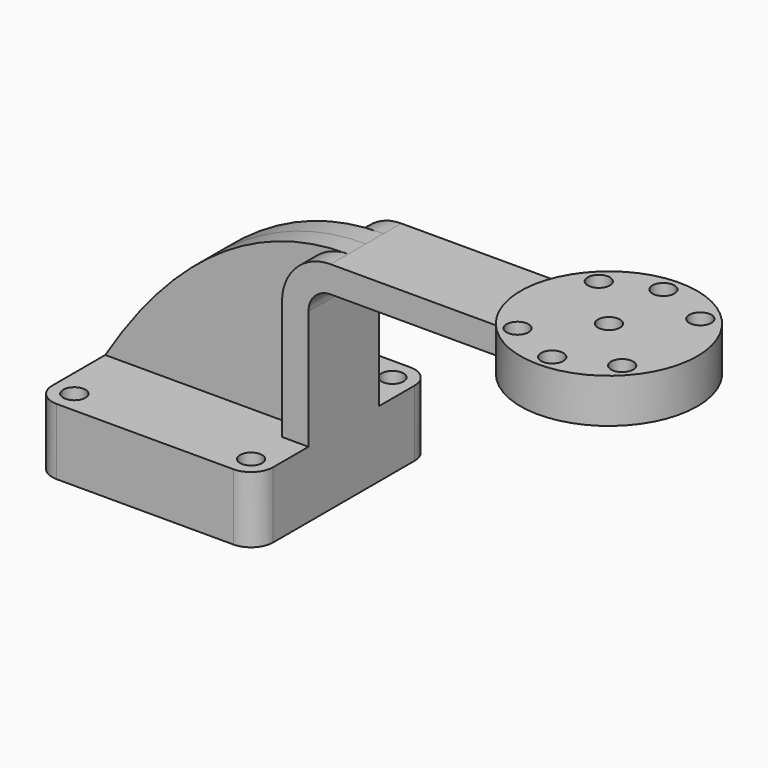
from build123d import *

# Parameters (mm, degrees)
F1_DEPTH = 25
F2_DEPTH = 5
F0_W     = 20
F0_H     = 6
F3_DEPTH = 10
F5_R     = 5
F7_D     = 5
F9_D     = 5


with BuildPart() as f1:
    # F0 (on Front) → F1 (new body, symmetric)
    with BuildSketch(Plane.XZ):
        Polygon((25, -7.5), (25, 7.5), (19, 7.5), (-25, 7.5), (-25, -7.5), align=None)
    extrude(amount=F1_DEPTH, both=True)

    # F0 (on Front) → F2 (join, symmetric)
    with BuildSketch(Plane.XZ):
        with BuildLine():
            Line((-25, 7.5), (19, 7.5))
            Line((19, 7.5), (19, 34.5))
            ThreePointArc((19, 34.5), (22.2218254069, 42.2781745931), (30, 45.5))
            add(Edge.make_bspline(
                [(-25, 7.5), (-11.6937831044, 29.0705016255), (6.4437664114, 45.5402298272), (30, 45.5)],
                knots=[0, 0, 0, 0, 66.8505796534, 66.8505796534, 66.8505796534, 66.8505796534], degree=3))
        make_face()
    extrude(amount=F2_DEPTH, both=True)

    # F0 (on Front) → F3 (join, symmetric)
    with BuildSketch(Plane.XZ):
        with BuildLine():
            Line((19, 7.5), (25, 7.5))
            Line((25, 7.5), (25, 34.5))
            ThreePointArc((25, 34.5), (26.4644660941, 38.0355339059), (30, 39.5))
            Line((30, 39.5), (65, 39.5))
            Line((65, 39.5), (65, 45.5))
            Line((65, 45.5), (30, 45.5))
            ThreePointArc((30, 45.5), (22.2218254069, 42.2781745931), (19, 34.5))
            Line((19, 34.5), (19, 7.5))
        make_face()
        with Locations((75, 42.5)):
            Rectangle(F0_W, F0_H)
    extrude(amount=F3_DEPTH, both=True)

    # F0 (on Front) → F4 (revolve)
    with BuildSketch(Plane.XZ):
        Polygon((85, 45.5), (85, 39.5), (85, 37.5), (105, 37.5), (105, 47.5), (85, 47.5), align=None)
    revolve(axis=Axis((85, 0, 42.5), (0, 0, 1)))

    # F5
    f5_edges = [f1.edges().sort_by_distance(p)[0] for p in [
        (25, 25, 0),
        (-25, 25, 0),
        (25, -25, 0),
        (-25, -25, 0),
    ]]
    fillet(f5_edges, radius=F5_R)

    # F7 (through all)
    with Locations(Plane.XY.offset(7.5)):
        with Locations((20, 20), (-20, 20), (20, -20), (-20, -20)):
            Hole(F7_D / 2)

    # F9 (through all)
    with Locations(Plane.XY.offset(47.5)):
        with Locations((85, 0), (73.5095148057, 11.4904851943), (96.4904851943, 11.4904851943), (73.5095148057, -11.4904851943), (96.8682619299, -11.0995354601), (85.1573778884, -16.249237896), (84.3727141619, 16.1917116493)):
            Hole(F9_D / 2)


solid = f1.part
